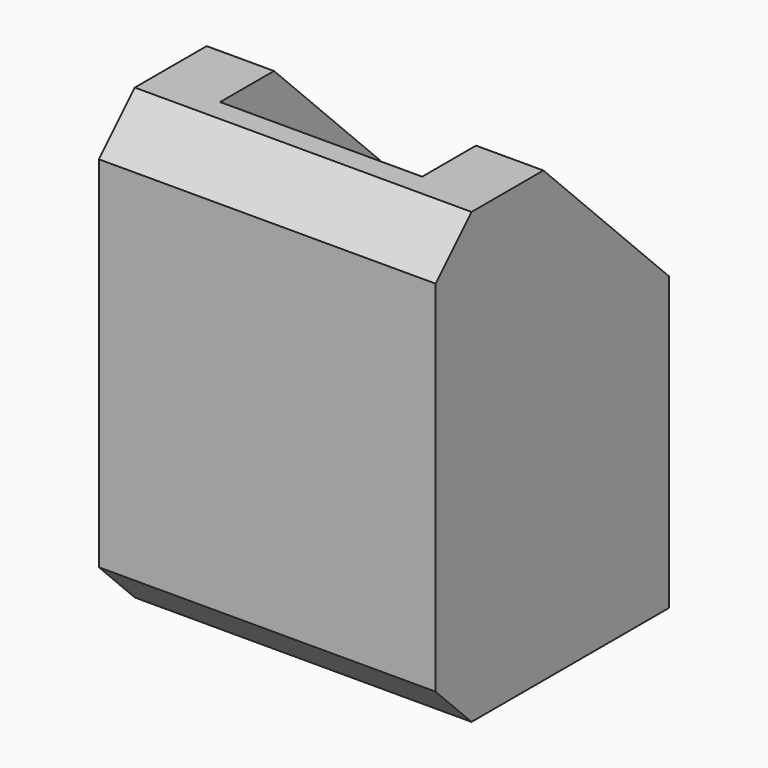
from build123d import *

# Parameters (mm, degrees)
PAD_DEPTH       = 20
CHAMFER_SIZE    = 1
CHAMFER001_SIZE = 2
POCKET_DEPTH    = 15.001


with BuildPart() as part:
    # Sketch → Pad (new body)
    with BuildSketch(Plane.XY):
        Polygon((-7.5, 5), (-7.5, -8), (7.5, -8), (7.5, 5), (4.5, 5), (4.5, -5), (-4.5, -5), (-4.5, 5), align=None)
    extrude(amount=PAD_DEPTH)

    # Chamfer
    chamfer_edges = [part.edges().sort_by_distance(p)[0] for p in [
        (-4.5, 5, 10),
        (4.5, 5, 10),
    ]]
    chamfer(chamfer_edges, length=CHAMFER_SIZE)

    # Chamfer001
    chamfer001_edges = [part.edges().sort_by_distance(p)[0] for p in [
        (0, -8, 20),
        (0, -8, 0),
    ]]
    chamfer(chamfer001_edges, length=CHAMFER001_SIZE)

    # Sketch001 (on Face2 of Chamfer001) → Pocket (cut, through all)
    with BuildSketch(Plane.YZ.offset(7.5)):
        Polygon((-2, 20), (5, 20), (5, 13), align=None)
    extrude(amount=-POCKET_DEPTH, mode=Mode.SUBTRACT)


solid = part.part
